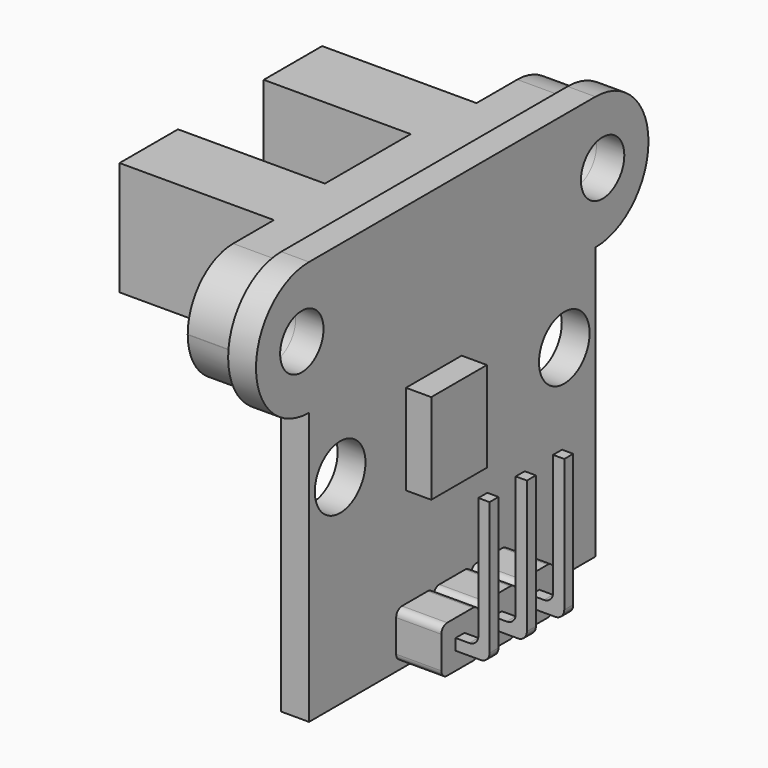
from build123d import *

# Parameters (mm, degrees)
F1_DEPTH  = 3.15
F2_R      = 3.14
F5_DEPTH  = 1.54
F4_R      = 1.5
F4_R_2    = 1.75
F6_DEPTH  = 12.5
F8_DEPTH  = 2.5
F9_W      = 0.62
F9_H      = 0.62
F10_DEPTH = 1.88
F11_W     = 0.62
F11_H     = 0.62
F12_DEPTH = 1.36
F13_W     = 0.62
F13_H     = 0.62
F14_DEPTH = 7.85
F15_R     = 0.5
F16_W     = 3.85
F16_H     = 5
F17_DEPTH = 1.4


with BuildPart() as f1:
    # F0 (on Top) → F1 (new body, symmetric)
    with BuildSketch(Plane.XY):
        Polygon((0, 2.965), (0, 0), (0, -2.965), (-8.13, -2.965), (-8.13, -7.005), (0.41, -7.005), (0.41, -12.965), (3.13, -12.965), (3.13, 0), (3.13, 12.965), (0.41, 12.965), (0.41, 7.005), (-8.13, 7.005), (-8.13, 2.965), align=None)
    extrude(amount=F1_DEPTH, both=True)

    # F2
    f2_edges = [f1.edges().sort_by_distance(p)[0] for p in [
        (1.77, 12.965, 3.15),
        (1.77, 12.965, -3.15),
        (1.77, -12.965, 3.15),
        (1.77, -12.965, -3.15),
    ]]
    fillet(f2_edges, radius=F2_R)

    # F3 (on face) → F5 (join)
    with BuildSketch(Plane.YZ.offset(3.13)):
        with BuildLine():
            Line((-9.9, -3.67), (-9.9, -18.73))
            Line((-9.9, -18.73), (9.9, -18.73))
            Line((9.9, -18.73), (9.9, -3.67))
            ThreePointArc((9.9, -3.67), (6.23, 0), (9.9, 3.67))
            Line((9.9, 3.67), (-9.9, 3.67))
            ThreePointArc((-9.9, 3.67), (-7.304918, 2.595082), (-6.23, 0))
            ThreePointArc((-6.23, 0), (-7.304918, -2.595082), (-9.9, -3.67))
        make_face()
        with BuildLine():
            ThreePointArc((-9.9, 3.67), (-13.57, 0), (-9.9, -3.67))
            ThreePointArc((-9.9, -3.67), (-7.304918, -2.595082), (-6.23, 0))
            ThreePointArc((-6.23, 0), (-7.304918, 2.595082), (-9.9, 3.67))
        make_face()
        with BuildLine():
            ThreePointArc((9.9, 3.67), (6.23, 0), (9.9, -3.67))
            ThreePointArc((9.9, -3.67), (12.495082, -2.595082), (13.57, 0))
            ThreePointArc((13.57, 0), (12.495082, 2.595082), (9.9, 3.67))
        make_face()
    extrude(amount=F5_DEPTH)

    # F4 (on face) → F6 (cut, symmetric)
    with BuildSketch(Plane.YZ.offset(3.13)):
        with Locations((-10.4, 0)):
            Circle(F4_R)
        with Locations((10.4, 0)):
            Circle(F4_R)
        with Locations((-7.75, -7.68)):
            Circle(F4_R_2)
        with Locations((7.75, -7.68)):
            Circle(F4_R_2)
    extrude(amount=F6_DEPTH, both=True, mode=Mode.SUBTRACT)

    # F7 (on face) → F8 (join)
    with BuildSketch(Plane.YZ.offset(4.67)):
        with BuildLine():
            ThreePointArc((1.291667, -16.098165), (1.174071, -15.814263), (0.890169, -15.696667))
            Line((0.890169, -15.696667), (-0.890169, -15.696667))
            ThreePointArc((-0.890169, -15.696667), (-1.174071, -15.814263), (-1.291667, -16.098165))
            Line((-1.291667, -16.098165), (-1.291667, -17.878502))
            ThreePointArc((-1.291667, -17.878502), (-1.174071, -18.162404), (-0.890169, -18.28))
            Line((-0.890169, -18.28), (0.890169, -18.28))
            ThreePointArc((0.890169, -18.28), (1.174071, -18.162404), (1.291667, -17.878502))
            Line((1.291667, -17.878502), (1.291667, -16.098165))
        make_face()
        with BuildLine():
            ThreePointArc((1.693165, -15.696667), (1.409263, -15.814263), (1.291667, -16.098165))
            Line((1.291667, -16.098165), (1.291667, -17.878502))
            ThreePointArc((1.291667, -17.878502), (1.409263, -18.162404), (1.693165, -18.28))
            Line((1.693165, -18.28), (3.473502, -18.28))
            ThreePointArc((3.473502, -18.28), (3.757404, -18.162404), (3.875, -17.878502))
            Line((3.875, -17.878502), (3.875, -16.098165))
            ThreePointArc((3.875, -16.098165), (3.757404, -15.814263), (3.473502, -15.696667))
            Line((3.473502, -15.696667), (1.693165, -15.696667))
        make_face()
        with BuildLine():
            Line((-1.291667, -17.878502), (-1.291667, -16.098165))
            ThreePointArc((-1.291667, -16.098165), (-1.409263, -15.814263), (-1.693165, -15.696667))
            Line((-1.693165, -15.696667), (-3.473502, -15.696667))
            ThreePointArc((-3.473502, -15.696667), (-3.757404, -15.814263), (-3.875, -16.098165))
            Line((-3.875, -16.098165), (-3.875, -17.878502))
            ThreePointArc((-3.875, -17.878502), (-3.757404, -18.162404), (-3.473502, -18.28))
            Line((-3.473502, -18.28), (-1.693165, -18.28))
            ThreePointArc((-1.693165, -18.28), (-1.409263, -18.162404), (-1.291667, -17.878502))
        make_face()
    extrude(amount=F8_DEPTH)

    # F9 (on face) → F10 (join)
    with BuildSketch(Plane.YZ.offset(7.17)):
        with Locations((0, -16.988333)):
            Rectangle(F9_W, F9_H)
        with Locations((2.583333, -16.988333)):
            Rectangle(F9_W, F9_H)
        with Locations((-2.583333, -16.988333)):
            Rectangle(F9_W, F9_H)
    extrude(amount=F10_DEPTH)

    # F11 (on face) → F12 (join)
    with BuildSketch(Plane.YZ.offset(3.13)):
        with Locations((-2.583333, -16.988333)):
            Rectangle(F11_W, F11_H)
        with Locations((0, -16.988333)):
            Rectangle(F11_W, F11_H)
        with Locations((2.583333, -16.988333)):
            Rectangle(F11_W, F11_H)
    extrude(amount=-F12_DEPTH)

    # F13 (on face) → F14 (join)
    with BuildSketch(Plane(origin=(0, 0, -17.298333), x_dir=(1, 0, 0), z_dir=(0, 0, -1))):
        with Locations((8.74, 2.583333)):
            Rectangle(F13_W, F13_H)
        with Locations((8.74, 0)):
            Rectangle(F13_W, F13_H)
        with Locations((8.74, -2.583333)):
            Rectangle(F13_W, F13_H)
    extrude(amount=-F14_DEPTH)

    # F15
    f15_edges = [f1.edges().sort_by_distance(p)[0] for p in [
        (9.05, 2.583333, -17.298333),
        (9.05, 0, -17.298333),
        (9.05, -2.583333, -17.298333),
        (8.43, 2.583333, -16.678333),
        (8.43, 0, -16.678333),
        (8.43, -2.583333, -16.678333),
    ]]
    fillet(f15_edges, radius=F15_R)

    # F16 (on face) → F17 (join)
    with BuildSketch(Plane.YZ.offset(4.67)):
        with Locations((-1.275, -7.68)):
            Rectangle(F16_W, F16_H)
    extrude(amount=F17_DEPTH)


solid = f1.part
